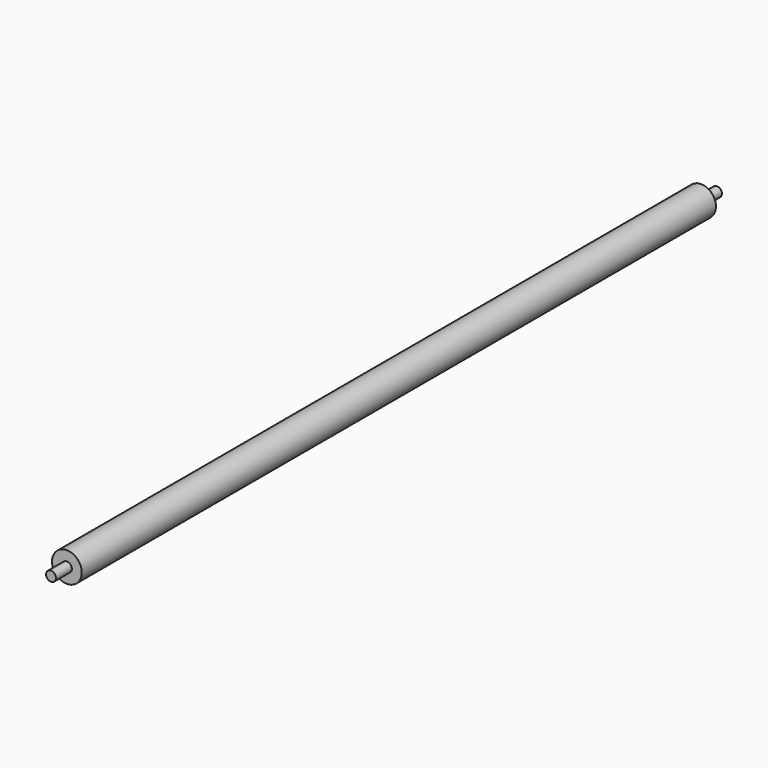
from build123d import *

# Parameters (mm, degrees)
F0_R     = 15
F0_R_2   = 5
F1_DEPTH = 800
F2_DEPTH = 20
F4_R     = 5
F5_DEPTH = 20


with BuildPart() as f1:
    # F0 (on Front) → F1 (new body)
    with BuildSketch(Plane.XZ):
        Circle(F0_R)
        Circle(F0_R_2, mode=Mode.SUBTRACT)
        Circle(F0_R_2)
    extrude(amount=F1_DEPTH)

    # F0 (on Front) → F2 (join)
    with BuildSketch(Plane.XZ):
        Circle(F0_R_2)
    extrude(amount=-F2_DEPTH)

    # F4 (on offset) → F5 (join)
    with BuildSketch(Plane.XZ.offset(800)):
        Circle(F4_R)
    extrude(amount=F5_DEPTH)


solid = f1.part
